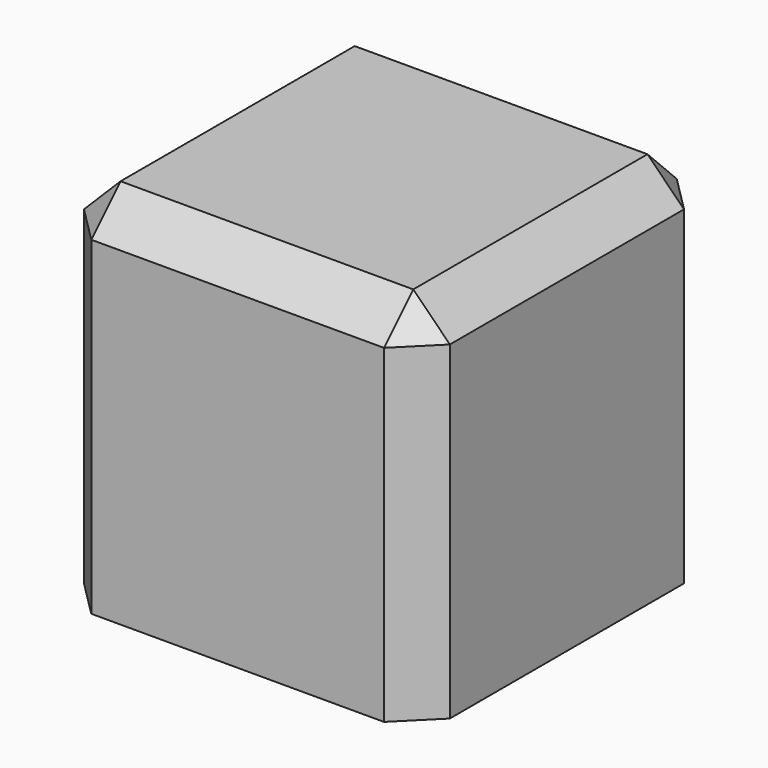
from build123d import *

# Parameters (mm, degrees)
F0_W     = 100
F0_H     = 100
F1_DEPTH = 50
F2_SIZE  = 10
F4_D     = 5
F4_DEPTH = 12
F4_TIP   = 1.5021515476


with BuildPart() as f1:
    # F0 (on Front) → F1 (new body, symmetric)
    with BuildSketch(Plane.XZ):
        Rectangle(F0_W, F0_H)
    extrude(amount=F1_DEPTH, both=True)

    # F2
    f2_edges = [f1.edges().sort_by_distance(p)[0] for p in [
        (-50, 0, 50),
        (0, -50, 50),
        (50, 0, 50),
        (0, 50, 50),
        (50, -50, 0),
        (50, 50, 0),
        (-50, 50, 0),
        (-50, -50, 0),
    ]]
    chamfer(f2_edges, length=F2_SIZE)

    # F4
    with Locations(Plane(origin=(0, 0, -50), x_dir=(1, 0, 0), z_dir=(0, 0, -1))):
        with Locations((0, -35)):
            Hole(F4_D / 2, depth=F4_DEPTH)
            with Locations((0, 0, -(F4_DEPTH + F4_TIP / 2))):  # 118° drill point
                Cone(0, F4_D / 2, F4_TIP, mode=Mode.SUBTRACT)


solid = f1.part
